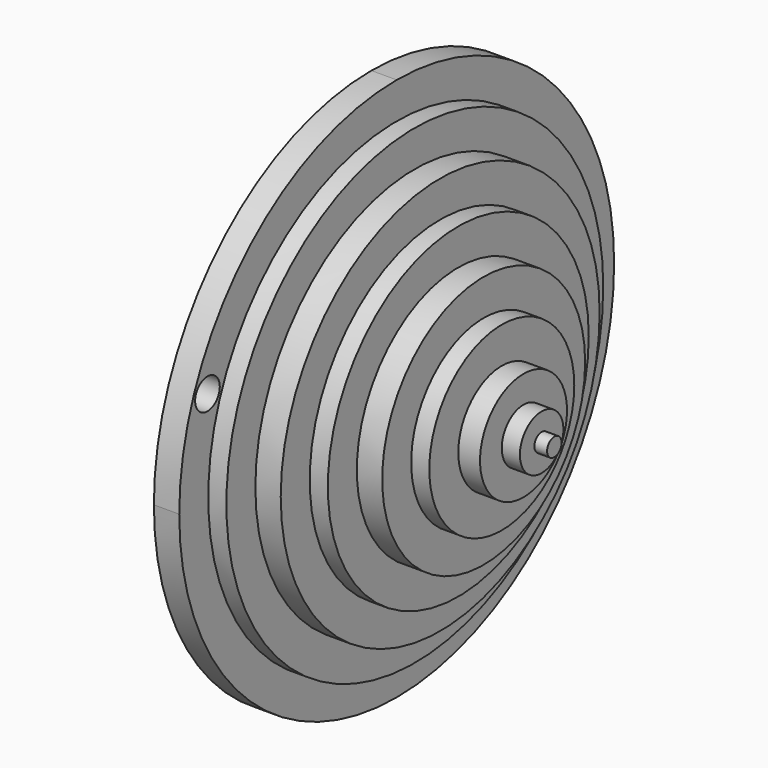
from build123d import *

# Parameters (mm, degrees)
F1_DEPTH  = 1.778
F2_R      = 16.51
F3_DEPTH  = 1.27
F4_R      = 13.97
F5_DEPTH  = 1.778
F6_R      = 11.43
F7_DEPTH  = 1.27
F8_R      = 8.89
F9_DEPTH  = 1.778
F10_R     = 6.35
F11_DEPTH = 1.27
F12_R     = 3.81
F13_DEPTH = 1.524
F14_R     = 1.905
F15_DEPTH = 1.27
F16_R     = 0.635
F17_DEPTH = 0.889
F18_R     = 1.0795
F19_DEPTH = 1.778
F21_DEPTH = 1.27
F23_DEPTH = 1.778
F25_DEPTH = 1.27
F27_DEPTH = 1.778
F29_DEPTH = 1.27
F31_DEPTH = 1.778
F33_DEPTH = 1.27
F35_DEPTH = 0.889


with BuildPart() as f1:
    # F0 (on Right) → F1 (new body)
    with BuildSketch(Plane.YZ):
        with BuildLine():
            ThreePointArc((-19.05, 0), (-5.5796158184, 5.5796158184), (0, 19.05))
            ThreePointArc((0, 19.05), (-5.5796158184, 32.5203841816), (-19.05, 38.1))
            ThreePointArc((-19.05, 38.1), (-32.5203841816, 32.5203841816), (-38.1, 19.05))
            ThreePointArc((-38.1, 19.05), (-32.5203841816, 5.5796158184), (-19.05, 0))
        make_face()
    extrude(amount=F1_DEPTH)

    # F2 (on face) → F3 (join)
    with BuildSketch(Plane.YZ.offset(1.778)):
        with Locations((-19.05, 19.05)):
            Circle(F2_R)
    extrude(amount=F3_DEPTH)

    # F4 (on face) → F5 (join)
    with BuildSketch(Plane.YZ.offset(3.048)):
        with Locations((-19.05, 19.05)):
            Circle(F4_R)
    extrude(amount=F5_DEPTH)

    # F6 (on face) → F7 (join)
    with BuildSketch(Plane.YZ.offset(4.826)):
        with Locations((-19.05, 19.05)):
            Circle(F6_R)
    extrude(amount=F7_DEPTH)

    # F8 (on face) → F9 (join)
    with BuildSketch(Plane.YZ.offset(6.096)):
        with Locations((-19.05, 19.05)):
            Circle(F8_R)
    extrude(amount=F9_DEPTH)

    # F10 (on face) → F11 (join)
    with BuildSketch(Plane.YZ.offset(7.874)):
        with Locations((-19.05, 19.05)):
            Circle(F10_R)
    extrude(amount=F11_DEPTH)

    # F12 (on face) → F13 (join)
    with BuildSketch(Plane.YZ.offset(9.144)):
        with Locations((-19.05, 19.05)):
            Circle(F12_R)
    extrude(amount=F13_DEPTH)

    # F14 (on face) → F15 (join)
    with BuildSketch(Plane.YZ.offset(10.668)):
        with Locations((-19.05, 19.05)):
            Circle(F14_R)
    extrude(amount=F15_DEPTH)

    # F16 (on face) → F17 (join)
    with BuildSketch(Plane.YZ.offset(11.938)):
        with Locations((-19.05, 19.05)):
            Circle(F16_R)
    extrude(amount=F17_DEPTH)

    # F18 (on face) → F19 (cut)
    with BuildSketch(Plane.YZ.offset(1.778)):
        with Locations((-35.6285501971, 25.4737715009)):
            Circle(F18_R)
    extrude(amount=-F19_DEPTH, mode=Mode.SUBTRACT)

    # F20 (on face) → F21 (join)
    with BuildSketch(Plane(origin=(0, 0, 0), x_dir=(0, -1, 0), z_dir=(-1, 0, 0))):
        with BuildLine():
            ThreePointArc((19.05, 35.56), (2.54, 19.05), (19.05, 2.54))
            Line((19.05, 2.54), (19.05, 35.56))
        make_face()
        with BuildLine():
            Line((19.05, 35.56), (19.05, 2.54))
            ThreePointArc((19.05, 2.54), (30.7243329574, 7.3756670426), (35.56, 19.05))
            ThreePointArc((35.56, 19.05), (30.7243329574, 30.7243329574), (19.05, 35.56))
        make_face()
    extrude(amount=F21_DEPTH)

    # F22 (on face) → F23 (join)
    with BuildSketch(Plane(origin=(-1.27, 0, 0), x_dir=(0, -1, 0), z_dir=(-1, 0, 0))):
        with BuildLine():
            ThreePointArc((19.05, 33.02), (5.08, 19.05), (19.05, 5.08))
            Line((19.05, 5.08), (19.05, 33.02))
        make_face()
        with BuildLine():
            Line((19.05, 33.02), (19.05, 5.08))
            ThreePointArc((19.05, 5.08), (28.9282817332, 9.1717182668), (33.02, 19.05))
            ThreePointArc((33.02, 19.05), (28.9282817332, 28.9282817332), (19.05, 33.02))
        make_face()
    extrude(amount=F23_DEPTH)

    # F24 (on face) → F25 (join)
    with BuildSketch(Plane(origin=(-3.048, 0, 0), x_dir=(0, -1, 0), z_dir=(-1, 0, 0))):
        with BuildLine():
            Line((19.05, 30.48), (19.05, 7.62))
            ThreePointArc((19.05, 7.62), (27.132230509, 10.967769491), (30.48, 19.05))
            ThreePointArc((30.48, 19.05), (27.132230509, 27.132230509), (19.05, 30.48))
        make_face()
        with BuildLine():
            ThreePointArc((19.05, 30.48), (7.62, 19.05), (19.05, 7.62))
            Line((19.05, 7.62), (19.05, 30.48))
        make_face()
    extrude(amount=F25_DEPTH)

    # F26 (on face) → F27 (join)
    with BuildSketch(Plane(origin=(-4.318, 0, 0), x_dir=(0, -1, 0), z_dir=(-1, 0, 0))):
        with BuildLine():
            ThreePointArc((19.05, 27.94), (10.16, 19.05), (19.05, 10.16))
            Line((19.05, 10.16), (19.05, 27.94))
        make_face()
        with BuildLine():
            Line((19.05, 27.94), (19.05, 10.16))
            ThreePointArc((19.05, 10.16), (25.3361792847, 12.7638207153), (27.94, 19.05))
            ThreePointArc((27.94, 19.05), (25.3361792847, 25.3361792847), (19.05, 27.94))
        make_face()
    extrude(amount=F27_DEPTH)

    # F28 (on face) → F29 (join)
    with BuildSketch(Plane(origin=(-6.096, 0, 0), x_dir=(0, -1, 0), z_dir=(-1, 0, 0))):
        with BuildLine():
            ThreePointArc((19.05, 25.4), (12.7, 19.05), (19.05, 12.7))
            Line((19.05, 12.7), (19.05, 25.4))
        make_face()
        with BuildLine():
            Line((19.05, 25.4), (19.05, 12.7))
            ThreePointArc((19.05, 12.7), (23.5401280605, 14.5598719395), (25.4, 19.05))
            ThreePointArc((25.4, 19.05), (23.5401280605, 23.5401280605), (19.05, 25.4))
        make_face()
    extrude(amount=F29_DEPTH)

    # F30 (on face) → F31 (join)
    with BuildSketch(Plane(origin=(-7.366, 0, 0), x_dir=(0, -1, 0), z_dir=(-1, 0, 0))):
        with BuildLine():
            ThreePointArc((19.05, 22.86), (15.24, 19.05), (19.05, 15.24))
            Line((19.05, 15.24), (19.05, 22.86))
        make_face()
        with BuildLine():
            Line((19.05, 22.86), (19.05, 15.24))
            ThreePointArc((19.05, 15.24), (21.7440768363, 16.3559231637), (22.86, 19.05))
            ThreePointArc((22.86, 19.05), (21.7440768363, 21.7440768363), (19.05, 22.86))
        make_face()
    extrude(amount=F31_DEPTH)

    # F32 (on face) → F33 (join)
    with BuildSketch(Plane(origin=(-9.144, 0, 0), x_dir=(0, -1, 0), z_dir=(-1, 0, 0))):
        with BuildLine():
            Line((19.05, 20.955), (19.05, 17.145))
            ThreePointArc((19.05, 17.145), (20.3970384182, 17.7029615818), (20.955, 19.05))
            ThreePointArc((20.955, 19.05), (20.3970384182, 20.3970384182), (19.05, 20.955))
        make_face()
        with BuildLine():
            ThreePointArc((19.05, 20.955), (17.145, 19.05), (19.05, 17.145))
            Line((19.05, 17.145), (19.05, 20.955))
        make_face()
    extrude(amount=F33_DEPTH)

    # F34 (on face) → F35 (join)
    with BuildSketch(Plane(origin=(-10.414, 0, 0), x_dir=(0, -1, 0), z_dir=(-1, 0, 0))):
        with BuildLine():
            Line((19.05, 19.685), (19.05, 18.415))
            ThreePointArc((19.05, 18.415), (19.4990128061, 18.6009871939), (19.685, 19.05))
            ThreePointArc((19.685, 19.05), (19.4990128061, 19.4990128061), (19.05, 19.685))
        make_face()
        with BuildLine():
            ThreePointArc((19.05, 19.685), (18.415, 19.05), (19.05, 18.415))
            Line((19.05, 18.415), (19.05, 19.685))
        make_face()
    extrude(amount=F35_DEPTH)


solid = f1.part
